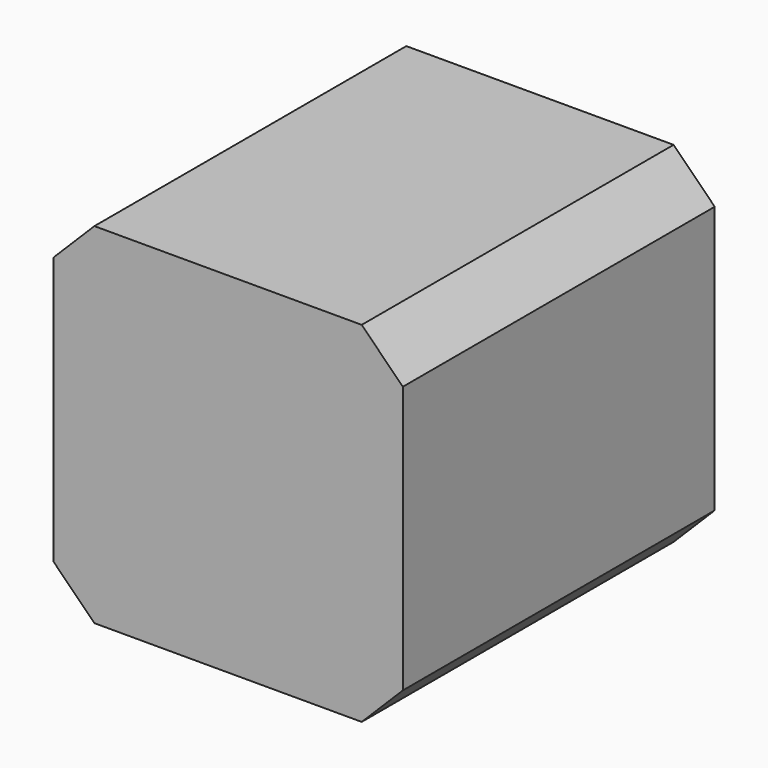
from build123d import *

# Parameters (mm, degrees)
SKETCH045_W             = 42.5
SKETCH045_H             = 42.5
PAD015_DEPTH            = 47.4
CHAMFER009_SIZE         = 5
CHAMFER008_SIZE         = 5
CHAMFER010_SIZE         = 5
CHAMFER011_SIZE         = 5
SKETCH047_R             = 11
PAD016_DEPTH            = 1.5
SKETCH046_R             = 2.5
PAD014_DEPTH            = 18.5
BODY010_PLACEMENT_ANGLE = 180


with BuildPart() as part:
    # Sketch045 → Pad015 (new body)
    with BuildSketch(Plane.XZ):
        Rectangle(SKETCH045_W, SKETCH045_H)
    extrude(amount=-PAD015_DEPTH)

    # Chamfer009
    chamfer009_edges = [part.edges().sort_by_distance(p)[0] for p in [
        (21.25, 23.7, 21.25),
    ]]
    chamfer(chamfer009_edges, length=CHAMFER009_SIZE)

    # Chamfer008
    chamfer008_edges = [part.edges().sort_by_distance(p)[0] for p in [
        (-21.25, 23.7, 21.25),
    ]]
    chamfer(chamfer008_edges, length=CHAMFER008_SIZE)

    # Chamfer010
    chamfer010_edges = [part.edges().sort_by_distance(p)[0] for p in [
        (21.25, 23.7, -21.25),
    ]]
    chamfer(chamfer010_edges, length=CHAMFER010_SIZE)

    # Chamfer011
    chamfer011_edges = [part.edges().sort_by_distance(p)[0] for p in [
        (-21.25, 23.7, -21.25),
    ]]
    chamfer(chamfer011_edges, length=CHAMFER011_SIZE)

    # Sketch047 (on Face1 of Chamfer011) → Pad016 (join)
    with BuildSketch(Plane.XZ):
        Circle(SKETCH047_R)
    extrude(amount=PAD016_DEPTH)

    # Sketch046 (on Face12 of Pad016) → Pad014 (join)
    with BuildSketch(Plane.XZ.offset(1.5)):
        Circle(SKETCH046_R)
    extrude(amount=PAD014_DEPTH)


with BuildPart() as part_1:
    # Body010 placement: moved
    add(part.part.moved(Location((0, -2.25, 150))).rotate(Axis((0, -2.25, 150), (0, 0, 1)), BODY010_PLACEMENT_ANGLE))


solid = part_1.part
